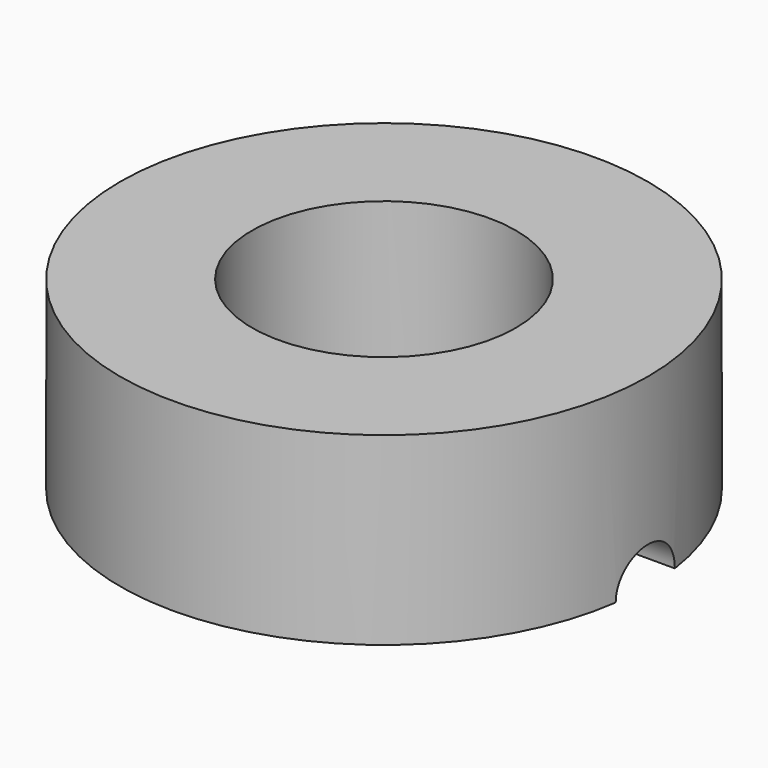
from build123d import *

# Parameters (mm, degrees)
F0_R     = 50
F1_DEPTH = 35
F2_R     = 25
F3_DEPTH = 35
F4_R     = 7
F5_DEPTH = 50.001


with BuildPart() as f1:
    # F0 (on Top) → F1 (new body)
    with BuildSketch(Plane.XY):
        Circle(F0_R)
    extrude(amount=F1_DEPTH)

    # F2 (on Top) → F3 (cut)
    with BuildSketch(Plane.XY):
        Circle(F2_R)
    extrude(amount=F3_DEPTH, mode=Mode.SUBTRACT)

    # F4 (on Right) → F5 (cut, through all)
    with BuildSketch(Plane.YZ):
        Circle(F4_R)
    extrude(amount=F5_DEPTH, mode=Mode.SUBTRACT)


solid = f1.part
